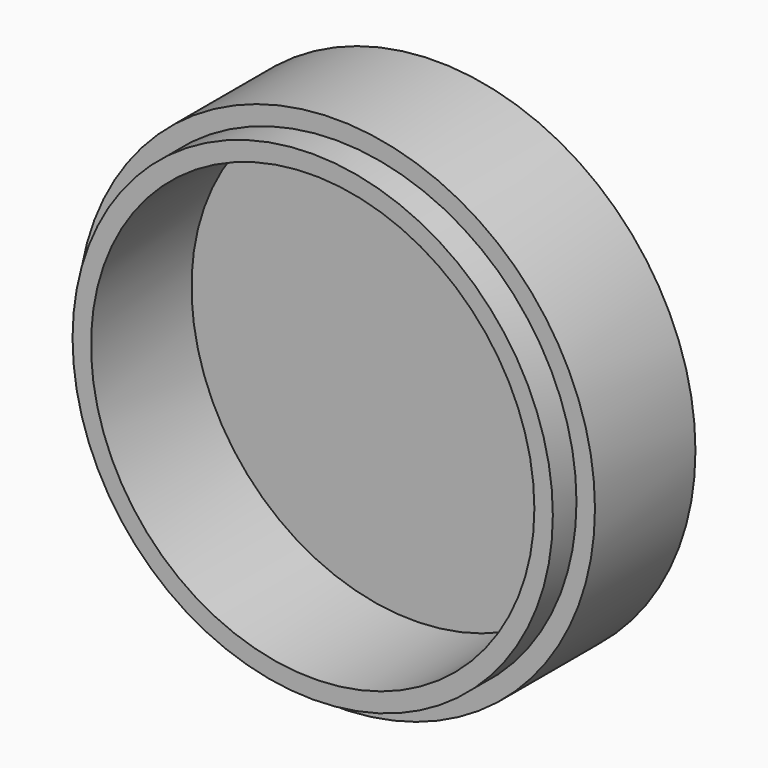
from build123d import *

# Parameters (mm, degrees)
F0_R     = 35
F1_DEPTH = 21
F2_R     = 30
F3_DEPTH = 17
F4_R     = 35
F4_R_2   = 32.5
F5_DEPTH = 4


with BuildPart() as f1:
    # F0 (on Front) → F1 (new body)
    with BuildSketch(Plane.XZ):
        Circle(F0_R)
    extrude(amount=F1_DEPTH)

    # F2 (on face) → F3 (cut)
    with BuildSketch(Plane.XZ.offset(21)):
        Circle(F2_R)
    extrude(amount=-F3_DEPTH, mode=Mode.SUBTRACT)

    # F4 (on face) → F5 (cut)
    with BuildSketch(Plane.XZ.offset(21)):
        Circle(F4_R)
        Circle(F4_R_2, mode=Mode.SUBTRACT)
    extrude(amount=-F5_DEPTH, mode=Mode.SUBTRACT)


solid = f1.part
